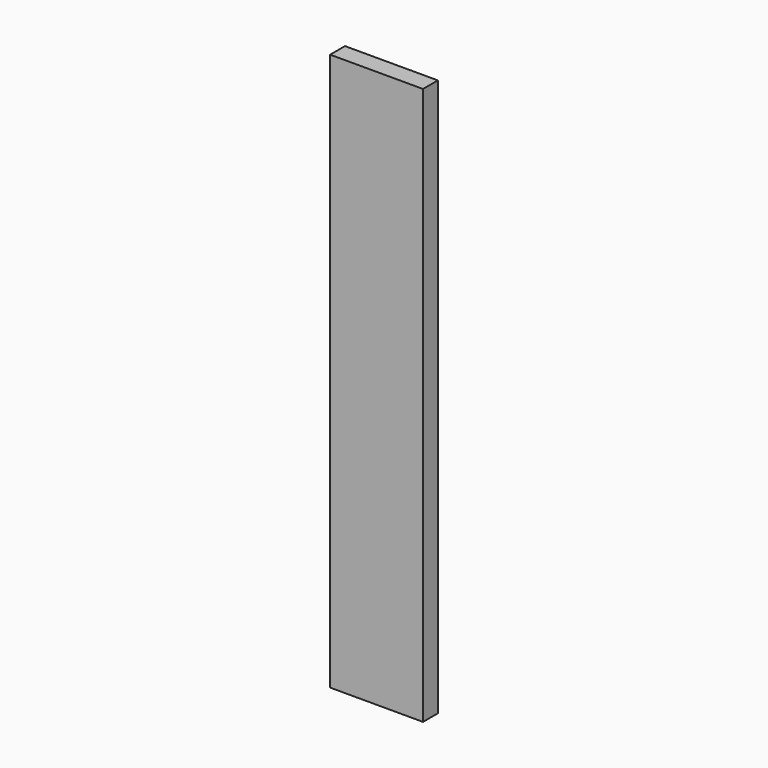
from build123d import *

# Parameters (mm, degrees)
SKETCH_W  = 500
SKETCH_H  = 100
PAD_DEPTH = 3000


with BuildPart() as body:
    # Sketch → Pad (new body)
    with BuildSketch(Plane.XY):
        Rectangle(SKETCH_W, SKETCH_H)
    extrude(amount=PAD_DEPTH)


with BuildPart() as wall0500_clone:
    # Clone base: copy of Body
    add(body.part)


solid = Compound([body.part, wall0500_clone.part])
